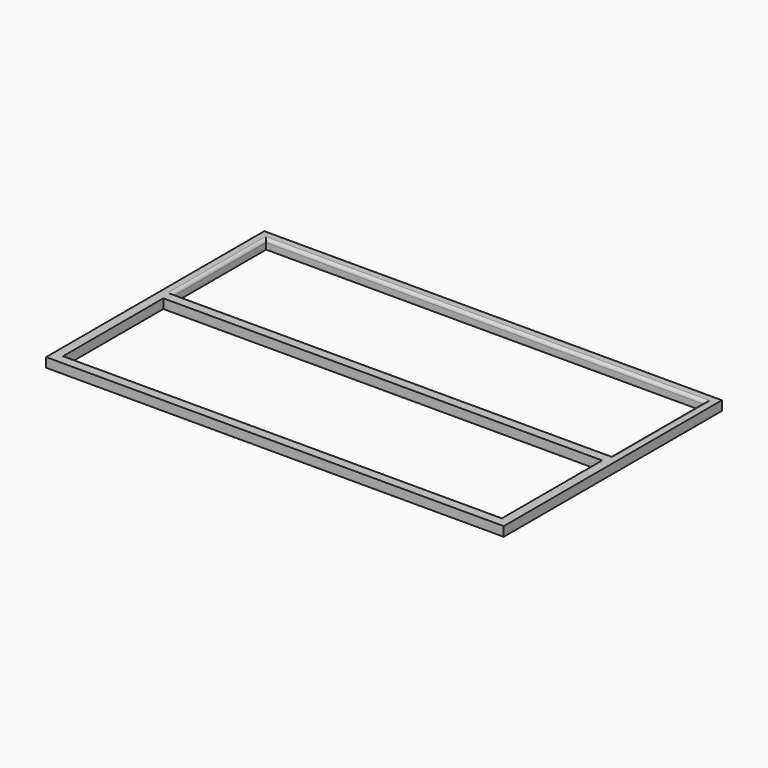
from build123d import *

# Parameters (mm, degrees)
F0_W     = 73
F0_H     = 43.5
F0_W_2   = 70
F0_H_2   = 1.5
F1_DEPTH = 1.5
F2_R     = 0.5


with BuildPart() as f1:
    # F0 (on Top) → F1 (new body)
    with BuildSketch(Plane.XY):
        with Locations((36.5, 21.75)):
            Rectangle(F0_W, F0_H)
        Polygon((1.5, 23), (1.5, 42), (71.5, 42), (71.5, 23), (71.5, 21.5), (71.5, 1.5), (1.5, 1.5), (1.5, 21.5), align=None, mode=Mode.SUBTRACT)
        with Locations((36.5, 22.25)):
            Rectangle(F0_W_2, F0_H_2)
    extrude(amount=F1_DEPTH)

    # F2
    f2_edges = [f1.edges().sort_by_distance(p)[0] for p in [
        (71.5, 32.5, 1.5),
        (36.5, 42, 1.5),
        (1.5, 32.5, 1.5),
    ]]
    fillet(f2_edges, radius=F2_R)


solid = f1.part
